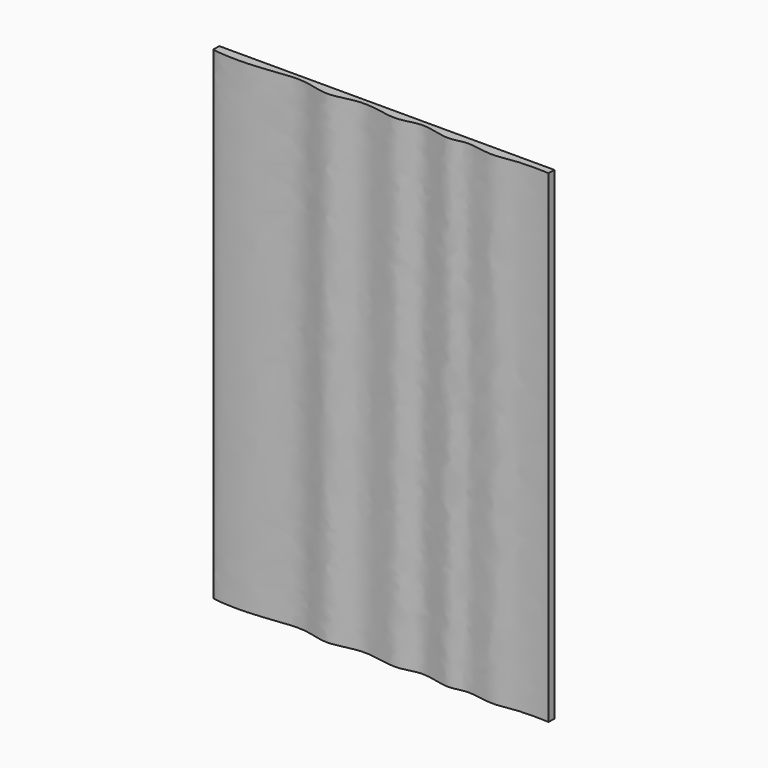
from build123d import *

# Parameters (mm, degrees)
F1_DEPTH = 750


with BuildPart() as f1:
    # F0 (on Top) → F1 (new body)
    with BuildSketch(Plane.XY):
        with BuildLine():
            Line((-296.6058715406, 11.2020960078), (-296.6058715406, 0))
            add(Edge.make_bspline(
                [(-296.6058715406, 0), (-293.0743200876, -2.4480466366), (-230.5029487135, -6.77039349), (-161.390940314, 9.6715340323), (-116.6107003098, -11.1835374228), (-66.2401499326, 10.4249457895), (-10.6770349671, -9.4106555124), (24.3567053935, 9.2118157113), (70.5164227763, -8.9398644189), (95.9797550769, 4.1892713626), (140.8833818354, -8.4964814307), (171.0589447788, 2.4432707826), (223.3941284594, 0.2157970316), (222.5148055161, 0)],
                knots=[0, 0, 0, 0, 0.1020619887, 0.2195487961, 0.3080186499, 0.4030983397, 0.5018265109, 0.5830471251, 0.6718532546, 0.7414019317, 0.8269052366, 0.9115960145, 1, 1, 1, 1], degree=3))
            Line((222.5148055161, 0), (223.3941284594, 0.2157970316))
            Line((223.3941284594, 0.2157970316), (223.876953125, 11.2020960078))
            Line((223.876953125, 11.2020960078), (-296.6058715406, 11.2020960078))
        make_face()
    extrude(amount=F1_DEPTH)


solid = f1.part
